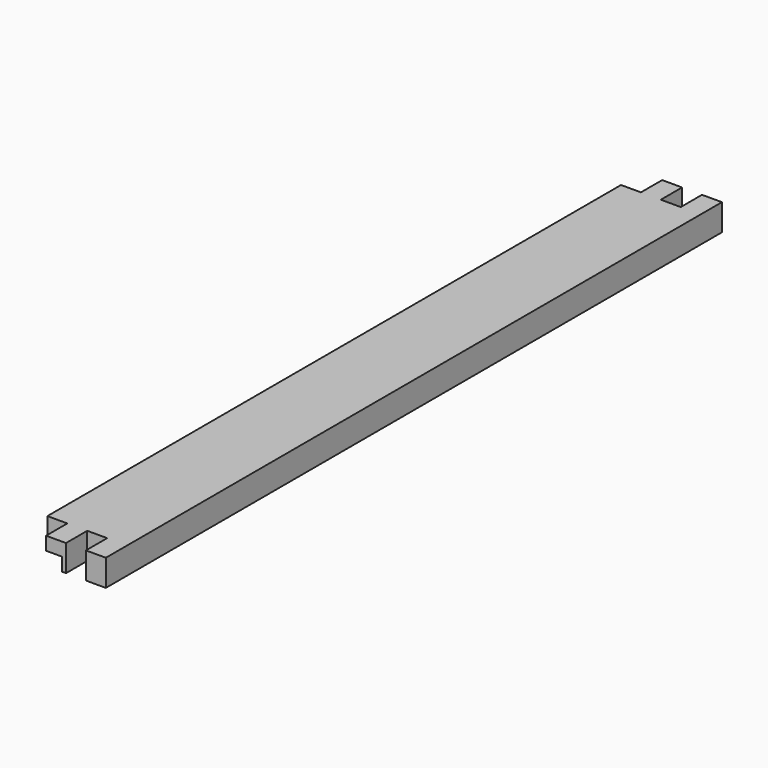
from build123d import *

# Parameters (mm, degrees)
F0_W     = 38.1
F0_H     = 12.7
F1_DEPTH = 368.3
F2_W     = 7.62
F2_H     = 6.35
F3_DEPTH = 368.301
F4_W     = 9.525
F4_H     = 12.7
F5_DEPTH = 25.4


with BuildPart() as f1:
    # F0 (on Front) → F1 (new body)
    with BuildSketch(Plane.XZ):
        with Locations((19.05, 6.35)):
            Rectangle(F0_W, F0_H)
    extrude(amount=F1_DEPTH)

    # F2 (on face) → F3 (cut, through all)
    with BuildSketch(Plane.XZ.offset(368.3)):
        with Locations((13.335, 3.175)):
            Rectangle(F2_W, F2_H)
    extrude(amount=-F3_DEPTH, mode=Mode.SUBTRACT)

    # F4 (on face) → F5 (cut)
    with BuildSketch(Plane.XY.offset(12.7)):
        with Locations((23.8125, -6.35)):
            Rectangle(F4_W, F4_H)
        with Locations((4.7625, -6.35)):
            Rectangle(F4_W, F4_H)
        with Locations((4.7625, -361.95)):
            Rectangle(F4_W, F4_H)
        with Locations((23.8125, -361.95)):
            Rectangle(F4_W, F4_H)
    extrude(amount=-F5_DEPTH, mode=Mode.SUBTRACT)


solid = f1.part
